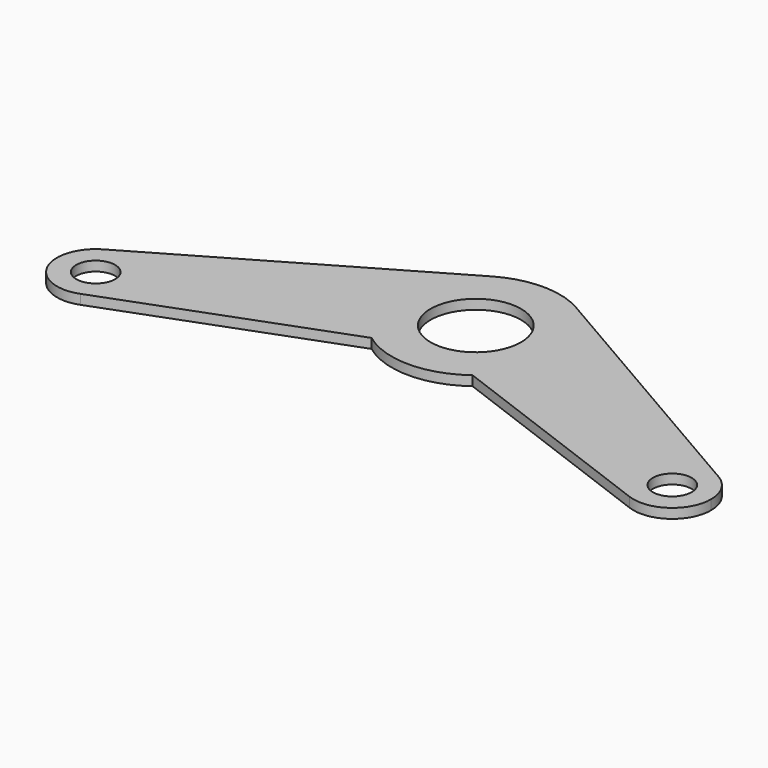
from build123d import *

# Parameters (mm, degrees)
F0_R     = 22.225
F0_R_2   = 9.525
F1_DEPTH = 4.7625


with BuildPart() as f1:
    # F0 (on Top) → F1 (new body)
    with BuildSketch(Plane.XY):
        with BuildLine():
            ThreePointArc((-24.789389, -33.001694), (-41.201832, 2.45655), (-20.692432, 35.713427))
            Line((-20.692432, 35.713427), (-151.147649, -39.872587))
            ThreePointArc((-151.147649, -39.872587), (-132.084981, -39.850607), (-122.547296, -56.355708))
            ThreePointArc((-122.547296, -56.355708), (-125.944088, -67.212944), (-134.923104, -74.198288))
            Line((-134.923104, -74.198288), (-24.789389, -33.001694))
        make_face()
        with BuildLine():
            ThreePointArc((24.789389, -33.001694), (36.924298, -18.445102), (41.275, 0))
            ThreePointArc((41.275, 0), (35.761052, 20.610016), (20.692432, 35.713427))
            ThreePointArc((20.692432, 35.713427), (0, 41.275), (-20.692432, 35.713427))
            ThreePointArc((-20.692432, 35.713427), (-41.201832, 2.45655), (-24.789389, -33.001694))
            ThreePointArc((-24.789389, -33.001694), (0, -41.275), (24.789389, -33.001694))
        make_face()
        Circle(F0_R, mode=Mode.SUBTRACT)
        with BuildLine():
            ThreePointArc((20.692432, 35.713427), (35.761052, 20.610016), (41.275, 0))
            ThreePointArc((41.275, 0), (36.924298, -18.445102), (24.789389, -33.001694))
            Line((24.789389, -33.001694), (134.923104, -74.198288))
            ThreePointArc((134.923104, -74.198288), (124.374302, -48.215008), (151.147649, -39.872587))
            Line((151.147649, -39.872587), (20.692432, 35.713427))
        make_face()
        with BuildLine():
            ThreePointArc((-122.547296, -56.355708), (-132.084981, -39.850607), (-151.147649, -39.872587))
            ThreePointArc((-151.147649, -39.872587), (-158.820289, -64.496408), (-134.923104, -74.198288))
            ThreePointArc((-134.923104, -74.198288), (-125.944088, -67.212944), (-122.547296, -56.355708))
        make_face()
        with Locations((-141.597296, -56.355708)):
            Circle(F0_R_2, mode=Mode.SUBTRACT)
        with BuildLine():
            ThreePointArc((160.647296, -56.355708), (158.102397, -46.843393), (151.147649, -39.872587))
            ThreePointArc((151.147649, -39.872587), (124.374302, -48.215008), (134.923104, -74.198288))
            ThreePointArc((134.923104, -74.198288), (152.454532, -72.008916), (160.647296, -56.355708))
        make_face()
        with Locations((141.597296, -56.355708)):
            Circle(F0_R_2, mode=Mode.SUBTRACT)
    extrude(amount=F1_DEPTH)


solid = f1.part
